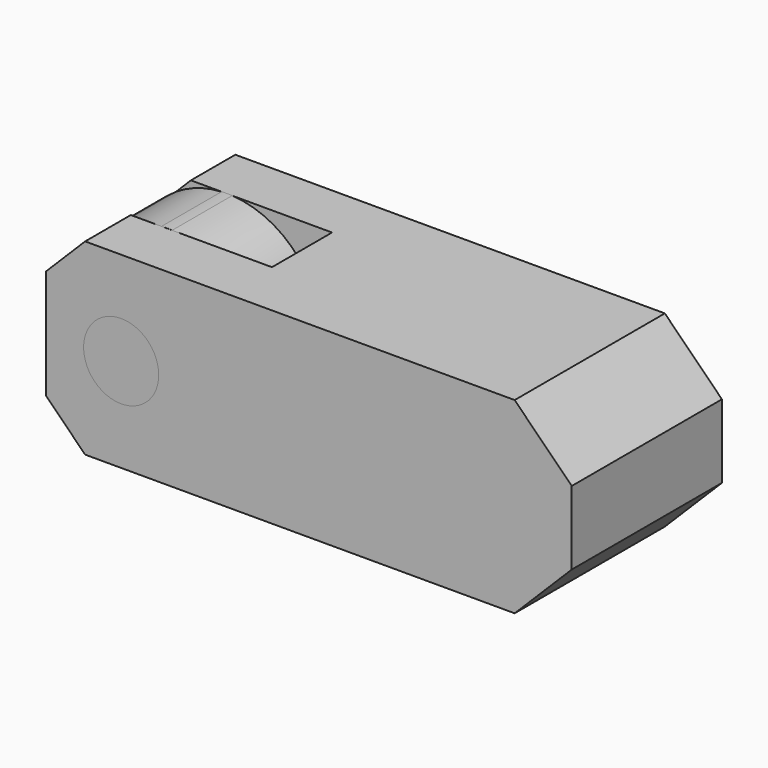
from build123d import *

# Parameters (mm, degrees)
F0_W      = 44.45
F0_H      = 15.875
F1_DEPTH  = 15.875
F2_W      = 15.24
F2_H      = 6.35
F3_DEPTH  = 15.876
F4_R      = 3.175
F5_DEPTH  = 15.876
F6_SIZE   = 3.302
F7_SIZE   = 4.826
F8_R      = 3.175
F9_DEPTH  = 15.875
F10_R     = 3.175
F11_DEPTH = 6.35


with BuildPart() as f1:
    # F0 (on Top) → F1 (new body)
    with BuildSketch(Plane.XY):
        Rectangle(F0_W, F0_H)
    extrude(amount=F1_DEPTH)

    # F2 (on face) → F3 (cut, through all)
    with BuildSketch(Plane.XY.offset(15.875)):
        with Locations((-14.605, 0.0635)):
            Rectangle(F2_W, F2_H)
    extrude(amount=-F3_DEPTH, mode=Mode.SUBTRACT)

    # F4 (on face) → F5 (cut, through all)
    with BuildSketch(Plane.XZ.offset(7.9375)):
        with Locations((-15.875, 7.9502)):
            Circle(F4_R)
    extrude(amount=-F5_DEPTH, mode=Mode.SUBTRACT)

    # F6
    f6_edges = [f1.edges().sort_by_distance(p)[0] for p in [
        (-22.225, 5.588, 15.875),
        (-22.225, -5.5245, 15.875),
        (-22.225, -5.5245, 0),
        (-22.225, 5.588, 0),
    ]]
    chamfer(f6_edges, length=F6_SIZE)

    # F7
    f7_edges = [f1.edges().sort_by_distance(p)[0] for p in [
        (22.225, 0, 15.875),
        (22.225, 0, 0),
    ]]
    chamfer(f7_edges, length=F7_SIZE)


with BuildPart() as f9:
    # F8 (on face) → F9 (new body)
    with BuildSketch(Plane.XZ.offset(7.9375)):
        with Locations((-15.875, 7.9502)):
            Circle(F8_R)
    extrude(amount=-F9_DEPTH)


with BuildPart() as f11:
    # F10 (on face) → F11 (new body)
    with BuildSketch(Plane.XZ.offset(-3.2385)):
        with BuildLine():
            ThreePointArc((-20.1776060293, 14.6203939707), (-23.8123797424, 7.9938929587), (-20.2507780003, 1.3277780003))
            Line((-20.2507780003, 1.3277780003), (-22.225, 3.302))
            Line((-22.225, 3.302), (-22.225, 12.573))
            Line((-22.225, 12.573), (-20.1776060293, 14.6203939707))
        make_face()
        with BuildLine():
            ThreePointArc((-20.2507780003, 1.3277780003), (-12.1152680699, 0.9596118943), (-7.9375, 7.9502))
            ThreePointArc((-7.9375, 7.9502), (-10.1058354376, 13.4018645624), (-15.426166835, 15.875))
            Line((-15.426166835, 15.875), (-16.323833165, 15.875))
            ThreePointArc((-16.323833165, 15.875), (-18.3321431941, 15.4978058173), (-20.1776060293, 14.6203939707))
            Line((-20.1776060293, 14.6203939707), (-22.225, 12.573))
            Line((-22.225, 12.573), (-22.225, 3.302))
            Line((-22.225, 3.302), (-20.2507780003, 1.3277780003))
        make_face()
        with Locations((-15.875, 7.9502)):
            Circle(F10_R, mode=Mode.SUBTRACT)
        with BuildLine():
            Line((-16.323833165, 15.875), (-15.426166835, 15.875))
            ThreePointArc((-15.426166835, 15.875), (-15.875, 15.8877), (-16.323833165, 15.875))
        make_face()
    extrude(amount=F11_DEPTH)


solid = Compound([f1.part, f9.part, f11.part])
